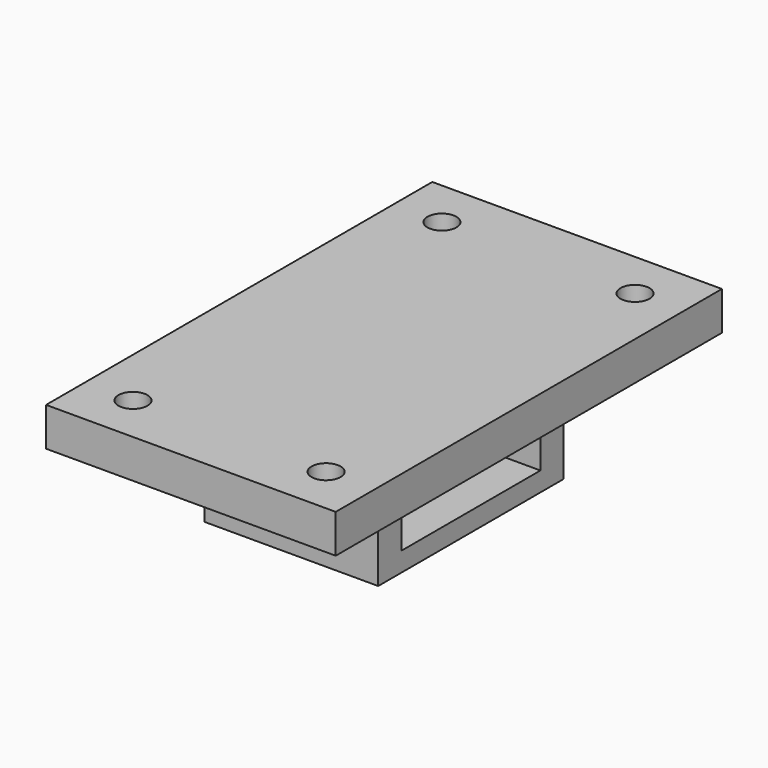
from build123d import *

# Parameters (mm, degrees)
F0_W     = 30
F0_H     = 50
F0_R     = 1.5
F1_DEPTH = 4
F2_W     = 18
F2_H     = 24
F3_DEPTH = 10
F4_W     = 18
F4_H     = 6
F5_DEPTH = 14


with BuildPart() as f1:
    # F0 (on Top) → F1 (new body)
    with BuildSketch(Plane.XY):
        Rectangle(F0_W, F0_H)
        with Locations((-10, -20)):
            Circle(F0_R, mode=Mode.SUBTRACT)
        with Locations((10, -20)):
            Circle(F0_R, mode=Mode.SUBTRACT)
        with Locations((-10, 20)):
            Circle(F0_R, mode=Mode.SUBTRACT)
        with Locations((10, 20)):
            Circle(F0_R, mode=Mode.SUBTRACT)
    extrude(amount=F1_DEPTH)

    # F2 (on face) → F3 (join)
    with BuildSketch(Plane(origin=(0, 0, 0), x_dir=(1, 0, 0), z_dir=(0, 0, -1))):
        Rectangle(F2_W, F2_H)
    extrude(amount=F3_DEPTH)

    # F4 (on face) → F5 (cut)
    with BuildSketch(Plane.YZ.offset(9)):
        with Locations((0, -5)):
            Rectangle(F4_W, F4_H)
    extrude(amount=-F5_DEPTH, mode=Mode.SUBTRACT)


solid = f1.part
